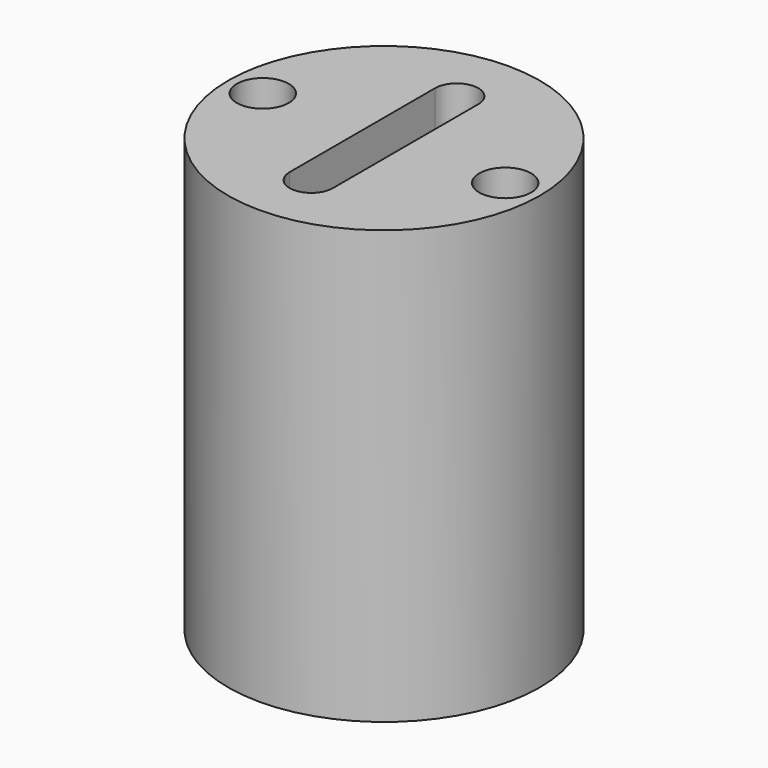
from build123d import *

# Parameters (mm, degrees)
F0_R     = 9
F0_R_2   = 1.5
F1_DEPTH = 25


with BuildPart() as f1:
    # F0 (on Top) → F1 (new body)
    with BuildSketch(Plane.XY):
        Circle(F0_R)
        with Locations((-7, 0)):
            Circle(F0_R_2, mode=Mode.SUBTRACT)
        with BuildLine():
            ThreePointArc((-1.25, 5.25), (0, 6.5), (1.25, 5.25))
            Line((1.25, 5.25), (1.25, -5.25))
            ThreePointArc((1.25, -5.25), (0, -6.5), (-1.25, -5.25))
            Line((-1.25, -5.25), (-1.25, 5.25))
        make_face(mode=Mode.SUBTRACT)
        with Locations((7, 0)):
            Circle(F0_R_2, mode=Mode.SUBTRACT)
    extrude(amount=F1_DEPTH)


solid = f1.part
